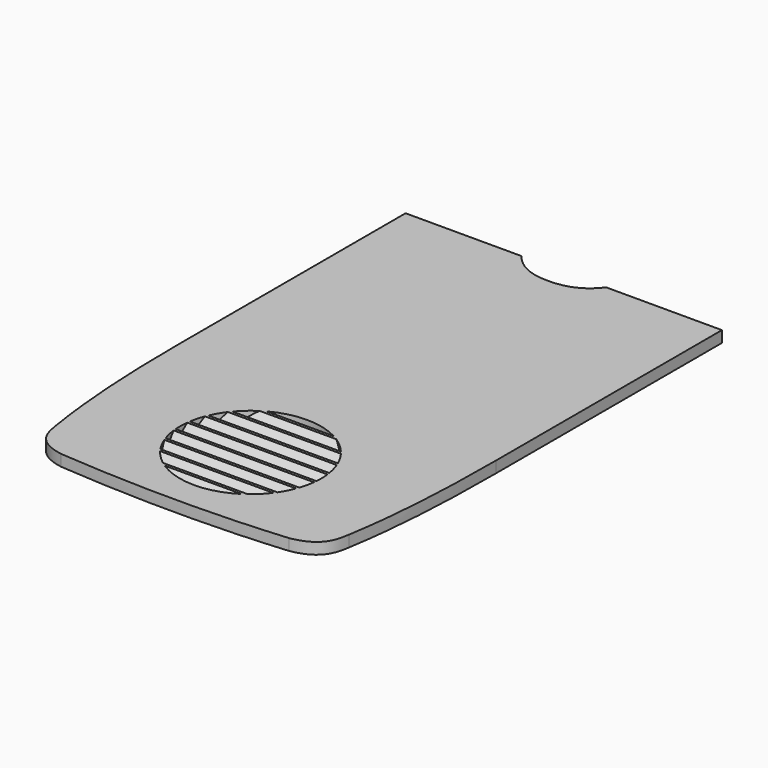
from build123d import *

# Parameters (mm, degrees)
F1_DEPTH = 2
F2_SIZE  = 1


with BuildPart() as f1:
    # F0 (on Top) → F1 (new body)
    with BuildSketch(Plane.XY):
        with BuildLine():
            Line((-7.5, 80), (-28, 80))
            Line((-28, 80), (-28, 30))
            add(Edge.make_bspline(
                [(-28, 30), (-28, 20), (-27.575813, 9.636616), (-26, 0)],
                knots=[0, 0, 0, 0, 30.066593, 30.066593, 30.066593, 30.066593], degree=3))
            add(Edge.make_bspline(
                [(-26, 0), (-25.558101, -3.369557), (-24.204869, -5.246621), (-20.199219, -5.996692)],
                knots=[0, 0, 0, 0, 8.343223, 8.343223, 8.343223, 8.343223], degree=3))
            add(Edge.make_bspline(
                [(-20.199219, -5.996692), (-6.993402, -7.045466), (6.588119, -7.168934), (20.199219, -5.996692)],
                knots=[0, 0, 0, 0, 40.398437, 40.398437, 40.398437, 40.398437], degree=3))
            add(Edge.make_bspline(
                [(26, 0), (25.558101, -3.369557), (24.204869, -5.246621), (20.199219, -5.996692)],
                knots=[0, 0, 0, 0, 8.343223, 8.343223, 8.343223, 8.343223], degree=3))
            add(Edge.make_bspline(
                [(28, 30), (28, 20), (27.575813, 9.636616), (26, 0)],
                knots=[0, 0, 0, 0, 30.066593, 30.066593, 30.066593, 30.066593], degree=3))
            Line((28, 30), (28, 80))
            Line((28, 80), (7.5, 80))
            add(Edge.make_bspline(
                [(-7.5, 80), (-5.275334, 77.19822), (-0.081008, 75.80178), (5.43735, 77.19822), (7.5, 80)],
                knots=[0, 0, 0, 0, 8.276473, 16.552945, 16.552945, 16.552945, 16.552945], degree=3))
        make_face()
        with BuildLine():
            ThreePointArc((12.489996, 11.2), (12.497499, 10.95005), (12.5, 10.7))
            ThreePointArc((12.5, 10.7), (12.48998, 10.199599), (12.459936, 9.7))
            ThreePointArc((12.459936, 9.7), (12.376438, 8.946778), (12.247449, 8.2))
            ThreePointArc((12.247449, 8.2), (12.068411, 7.443706), (11.842719, 6.7))
            ThreePointArc((11.842719, 6.7), (11.558205, 5.939968), (11.224972, 5.2))
            ThreePointArc((11.224972, 5.2), (10.816598, 4.434921), (10.356158, 3.7))
            ThreePointArc((10.356158, 3.7), (9.789427, 2.927155), (9.165151, 2.2))
            ThreePointArc((9.165151, 2.2), (8.366261, 1.412606), (7.5, 0.7))
            ThreePointArc((7.5, 0.7), (6.244692, -0.128381), (4.898979, -0.8))
            ThreePointArc((4.898979, -0.8), (0, -1.8), (-4.898979, -0.8))
            ThreePointArc((-4.898979, -0.8), (-6.244692, -0.128381), (-7.5, 0.7))
            ThreePointArc((-7.5, 0.7), (-8.366261, 1.412606), (-9.165151, 2.2))
            ThreePointArc((-9.165151, 2.2), (-9.789427, 2.927155), (-10.356158, 3.7))
            ThreePointArc((-10.356158, 3.7), (-10.816598, 4.434921), (-11.224972, 5.2))
            ThreePointArc((-11.224972, 5.2), (-11.558205, 5.939968), (-11.842719, 6.7))
            ThreePointArc((-11.842719, 6.7), (-12.068411, 7.443706), (-12.247449, 8.2))
            ThreePointArc((-12.247449, 8.2), (-12.376438, 8.946778), (-12.459936, 9.7))
            ThreePointArc((-12.459936, 9.7), (-12.497491, 10.449549), (-12.489996, 11.2))
            ThreePointArc((-12.489996, 11.2), (-12.437114, 11.952279), (-12.338963, 12.7))
            ThreePointArc((-12.338963, 12.7), (-12.192571, 13.455218), (-12, 14.2))
            ThreePointArc((-12, 14.2), (-11.752176, 14.958681), (-11.456439, 15.7))
            ThreePointArc((-11.456439, 15.7), (-11.092144, 16.463189), (-10.677078, 17.2))
            ThreePointArc((-10.677078, 17.2), (-10.168579, 17.969801), (-9.604686, 18.7))
            ThreePointArc((-9.604686, 18.7), (-8.896034, 19.481263), (-8.124038, 20.2))
            ThreePointArc((-8.124038, 20.2), (-7.070495, 21.008157), (-5.937171, 21.7))
            ThreePointArc((-5.937171, 21.7), (0, 23.2), (5.937171, 21.7))
            ThreePointArc((5.937171, 21.7), (7.070495, 21.008157), (8.124038, 20.2))
            ThreePointArc((8.124038, 20.2), (8.896034, 19.481263), (9.604686, 18.7))
            ThreePointArc((9.604686, 18.7), (10.168579, 17.969801), (10.677078, 17.2))
            ThreePointArc((10.677078, 17.2), (11.092144, 16.463189), (11.456439, 15.7))
            ThreePointArc((11.456439, 15.7), (11.752176, 14.958681), (12, 14.2))
            ThreePointArc((12, 14.2), (12.192571, 13.455218), (12.338963, 12.7))
            ThreePointArc((12.338963, 12.7), (12.437114, 11.952279), (12.489996, 11.2))
        make_face(mode=Mode.SUBTRACT)
        with BuildLine():
            Line((-8.124038, 20.2), (8.124038, 20.2))
            ThreePointArc((8.124038, 20.2), (7.070495, 21.008157), (5.937171, 21.7))
            Line((5.937171, 21.7), (-5.937171, 21.7))
            ThreePointArc((-5.937171, 21.7), (-7.070495, 21.008157), (-8.124038, 20.2))
        make_face()
        with BuildLine():
            Line((-10.677078, 17.2), (10.677078, 17.2))
            ThreePointArc((10.677078, 17.2), (10.168579, 17.969801), (9.604686, 18.7))
            Line((9.604686, 18.7), (-9.604686, 18.7))
            ThreePointArc((-9.604686, 18.7), (-10.168579, 17.969801), (-10.677078, 17.2))
        make_face()
        with BuildLine():
            Line((-12, 14.2), (12, 14.2))
            ThreePointArc((12, 14.2), (11.752176, 14.958681), (11.456439, 15.7))
            Line((11.456439, 15.7), (-11.456439, 15.7))
            ThreePointArc((-11.456439, 15.7), (-11.752176, 14.958681), (-12, 14.2))
        make_face()
        with BuildLine():
            Line((-12.489996, 11.2), (12.489996, 11.2))
            ThreePointArc((12.489996, 11.2), (12.437114, 11.952279), (12.338963, 12.7))
            Line((12.338963, 12.7), (-12.338963, 12.7))
            ThreePointArc((-12.338963, 12.7), (-12.437114, 11.952279), (-12.489996, 11.2))
        make_face()
        with BuildLine():
            ThreePointArc((12.247449, 8.2), (12.376438, 8.946778), (12.459936, 9.7))
            Line((12.459936, 9.7), (-12.459936, 9.7))
            ThreePointArc((-12.459936, 9.7), (-12.376438, 8.946778), (-12.247449, 8.2))
            Line((-12.247449, 8.2), (12.247449, 8.2))
        make_face()
        with BuildLine():
            ThreePointArc((11.224972, 5.2), (11.558205, 5.939968), (11.842719, 6.7))
            Line((11.842719, 6.7), (-11.842719, 6.7))
            ThreePointArc((-11.842719, 6.7), (-11.558205, 5.939968), (-11.224972, 5.2))
            Line((-11.224972, 5.2), (11.224972, 5.2))
        make_face()
        with BuildLine():
            ThreePointArc((9.165151, 2.2), (9.789427, 2.927155), (10.356158, 3.7))
            Line((10.356158, 3.7), (-10.356158, 3.7))
            ThreePointArc((-10.356158, 3.7), (-9.789427, 2.927155), (-9.165151, 2.2))
            Line((-9.165151, 2.2), (9.165151, 2.2))
        make_face()
        with BuildLine():
            ThreePointArc((4.898979, -0.8), (6.244692, -0.128381), (7.5, 0.7))
            Line((7.5, 0.7), (-7.5, 0.7))
            ThreePointArc((-7.5, 0.7), (-6.244692, -0.128381), (-4.898979, -0.8))
            Line((-4.898979, -0.8), (4.898979, -0.8))
        make_face()
    extrude(amount=F1_DEPTH)

    # F2
    f2_edges = [f1.edges().sort_by_distance(p)[0] for p in [
        (0, 21.7, 0),
        (0, 18.7, 0),
        (0, 15.7, 0),
        (0, 12.7, 0),
        (0, 9.7, 0),
        (0, 6.7, 0),
        (0, 3.7, 0),
        (0, 0.7, 0),
        (0, 20.2, 2),
        (0, 17.2, 2),
        (0, 14.2, 2),
        (0, 11.2, 2),
        (0, 8.2, 2),
        (0, 5.2, 2),
        (0, -0.8, 2),
        (0, 2.2, 2),
    ]]
    chamfer(f2_edges, length=F2_SIZE)


solid = f1.part
